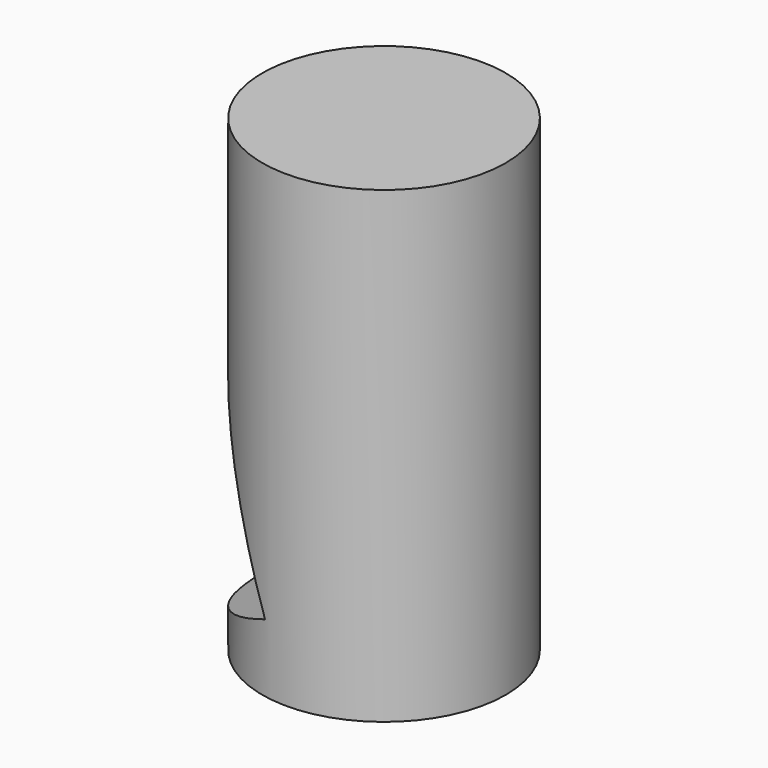
from build123d import *

# Parameters (mm, degrees)
F0_R     = 52
F1_DEPTH = 200
F3_DEPTH = 52


with BuildPart() as f1:
    # F0 (on Top) → F1 (new body)
    with BuildSketch(Plane.XY):
        Circle(F0_R)
    extrude(amount=F1_DEPTH)

    # F2 (on Front) → F3 (cut, symmetric)
    with BuildSketch(Plane.XZ):
        Polygon((-52, 131), (-52, 12), (-10, 29), align=None)
    extrude(amount=F3_DEPTH, both=True, mode=Mode.SUBTRACT)


solid = f1.part
